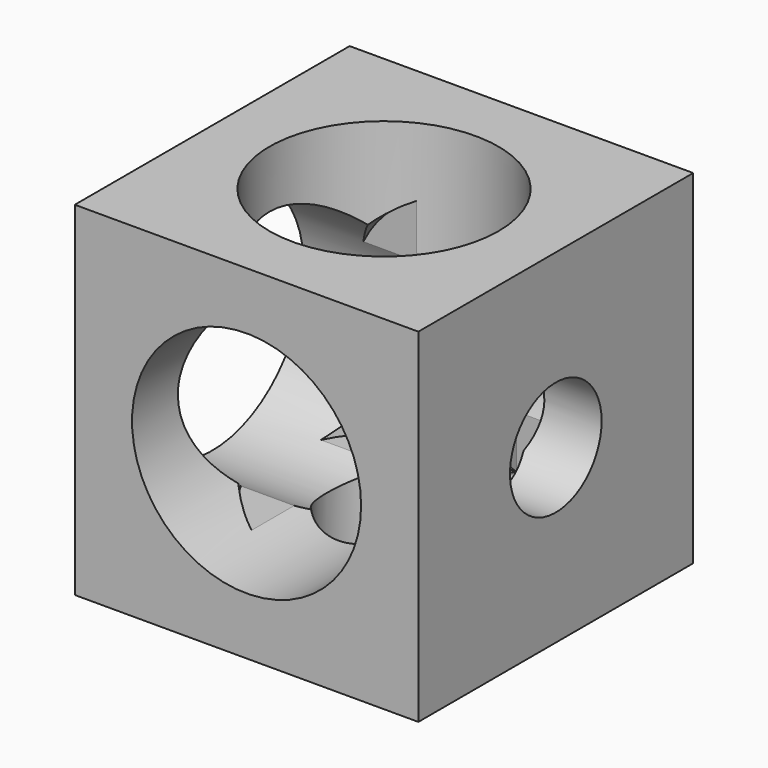
from build123d import *

# Parameters (mm, degrees)
F0_W                 = 15
F0_H                 = 15
F1_DEPTH             = 15
F5_D                 = 5
F5_CBORE_D           = 10
F5_CBORE_DEPTH       = 12
F5_ON_F3_D           = 5
F5_ON_F3_CBORE_D     = 10
F5_ON_F3_CBORE_DEPTH = 12
F5_ON_F4_D           = 5
F5_ON_F4_CBORE_D     = 10
F5_ON_F4_CBORE_DEPTH = 12


with BuildPart() as f1:
    # F0 (on Top) → F1 (new body)
    with BuildSketch(Plane.XY):
        Rectangle(F0_W, F0_H)
    extrude(amount=F1_DEPTH)

    # F5 (through all)
    with Locations(Plane.XZ.offset(7.5)):
        with Locations((0, 7.5)):
            CounterBoreHole(F5_D / 2, F5_CBORE_D / 2, F5_CBORE_DEPTH)

    # F5 on F3 (through all)
    with Locations(Plane(origin=(-7.5, 0, 0), x_dir=(0, -1, 0), z_dir=(-1, 0, 0))):
        with Locations((0, 7.5)):
            CounterBoreHole(F5_ON_F3_D / 2, F5_ON_F3_CBORE_D / 2, F5_ON_F3_CBORE_DEPTH)

    # F5 on F4 (through all)
    with Locations(Plane.XY.offset(15)):
        with Locations((0, 0)):
            CounterBoreHole(F5_ON_F4_D / 2, F5_ON_F4_CBORE_D / 2, F5_ON_F4_CBORE_DEPTH)


solid = f1.part
